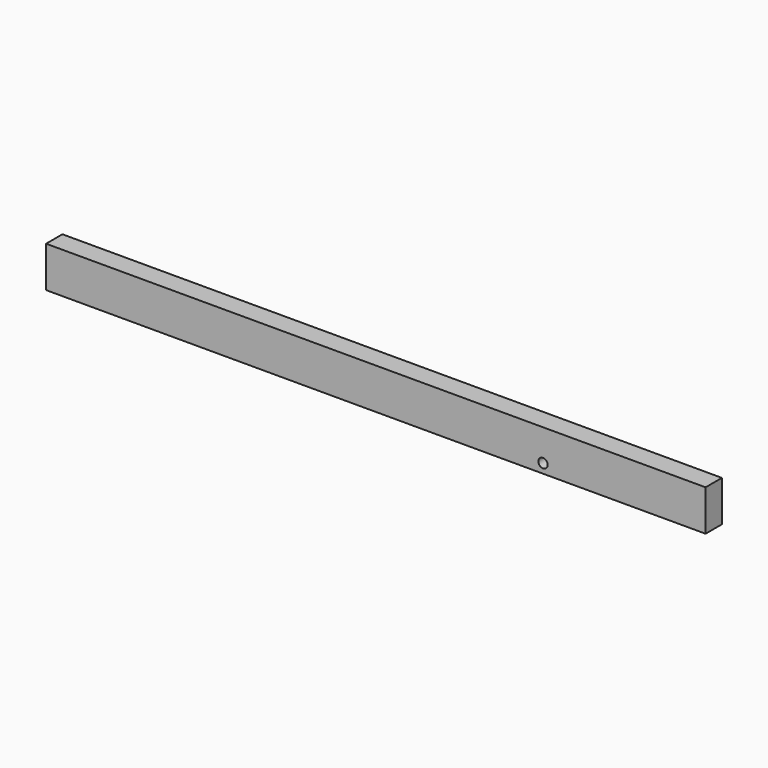
from build123d import *

# Parameters (mm, degrees)
CYLINDER_R           = 5
CYLINDER_DEPTH       = 100
CYLINDER_PITCH_ANGLE = 90
SKETCH_W             = 22
SKETCH_H             = 44
PAD_DEPTH            = 710
CUT_PLACEMENT_ANGLE  = -90


with BuildPart() as cylinder:
    # Cylinder → Cylinder (new body)
    with BuildSketch(Plane.XY):
        Circle(CYLINDER_R)
    extrude(amount=CYLINDER_DEPTH)


with BuildPart() as cylinder_1:
    # Cylinder pitch: moved
    add(cylinder.part.rotate(Axis((0, 0, 0), (0, 1, 0)), CYLINDER_PITCH_ANGLE))


with BuildPart() as cylinder_2:
    # Cylinder placement: moved
    add(cylinder_1.part.moved(Location((-50, 535, 10))))


with BuildPart() as cut:
    # Sketch → Pad (new body)
    with BuildSketch(Plane.XZ):
        with Locations((11, 22)):
            Rectangle(SKETCH_W, SKETCH_H)
    extrude(amount=-PAD_DEPTH)

    # Cut: cut Cylinder
    add(cylinder_2.part, mode=Mode.SUBTRACT)


with BuildPart() as cut_1:
    # Cut placement: moved
    add(cut.part.rotate(Axis((0, 0, 0), (0, 0, 1)), CUT_PLACEMENT_ANGLE))


solid = cut_1.part
